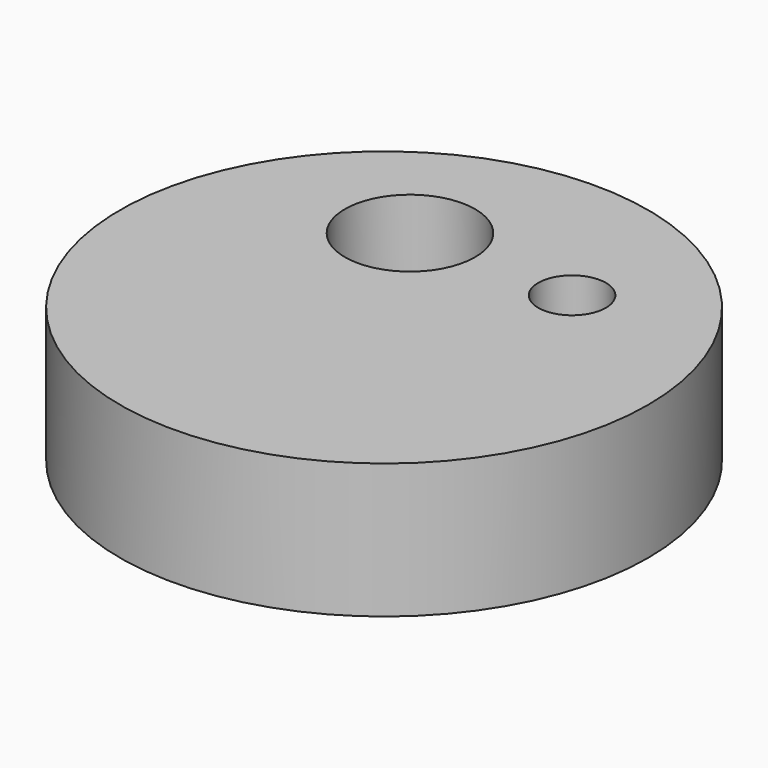
from build123d import *

# Parameters (mm, degrees)
F0_R     = 49.767675
F0_R_2   = 12.271302
F0_R_3   = 6.377972
F1_DEPTH = 25.4


with BuildPart() as f1:
    # F0 (on Top) → F1 (new body)
    with BuildSketch(Plane.XY):
        Circle(F0_R)
        with Locations((-11.825246, 20.884901)):
            Circle(F0_R_2, mode=Mode.SUBTRACT)
        with Locations((19.197695, 20.3104)):
            Circle(F0_R_3, mode=Mode.SUBTRACT)
    extrude(amount=-F1_DEPTH)


solid = f1.part
